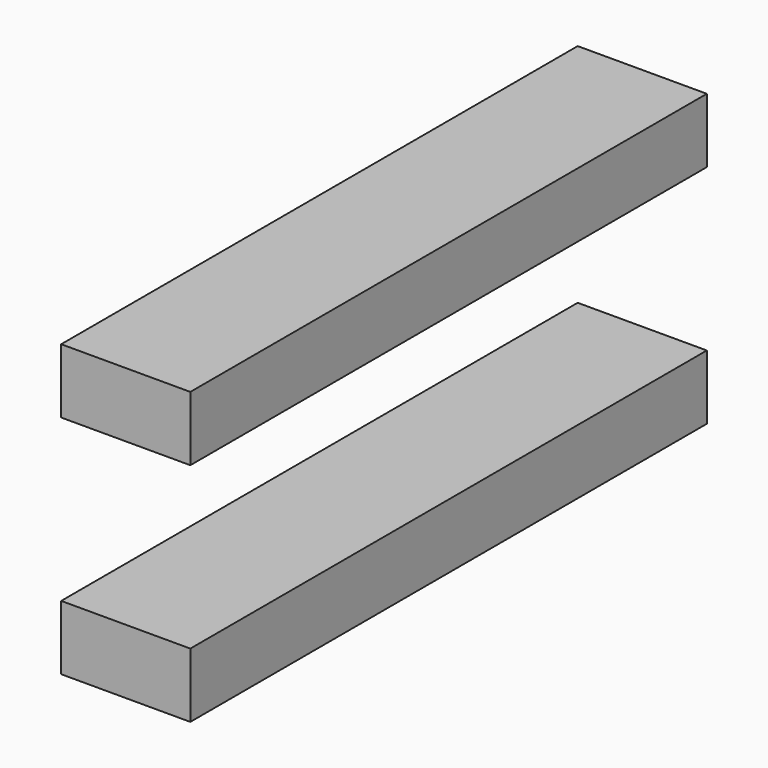
from build123d import *

# Parameters (mm, degrees)
F0_W     = 5
F0_H     = 2.5
F1_DEPTH = 25


with BuildPart() as f1:
    # F0 (on Front) → F1 (new body, symmetric)
    with BuildSketch(Plane.XZ):
        Polygon((-2.5, 6.25), (-2.5, 8.75), (2.5, 8.75), (2.5, 6.25), (5, 6.25), (5, 11.25), (-5, 11.25), (-5, 6.25), align=None)
        Polygon((-2.5, -8.75), (-2.5, -6.25), (-5, -6.25), (-5, -11.25), (5, -11.25), (5, -6.25), (2.5, -6.25), (2.5, -8.75), align=None)
        with Locations((0, 7.5)):
            Rectangle(F0_W, F0_H)
        with Locations((0, -7.5)):
            Rectangle(F0_W, F0_H)
    extrude(amount=F1_DEPTH, both=True)


solid = f1.part
